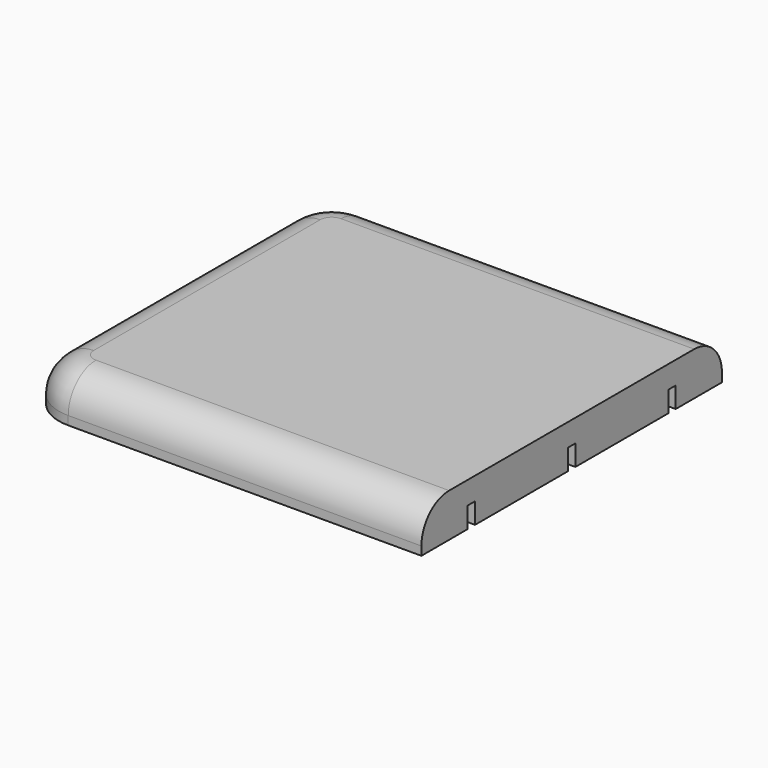
from build123d import *

# Parameters (mm, degrees)
F0_W     = 138.2199470003
F0_H     = 130
F1_DEPTH = 25
F2_R     = 16
F3_R     = 12
F4_DEPTH = 10
F5_W     = 3.2
F5_H     = 7.2
F6_DEPTH = 5


with BuildPart() as f1:
    # F0 (on Top) → F1 (new body)
    with BuildSketch(Plane.XY):
        with Locations((-8.8900264998, 0)):
            Rectangle(F0_W, F0_H)
    extrude(amount=F1_DEPTH)

    # F2
    f2_edges = [f1.edges().sort_by_distance(p)[0] for p in [
        (-78, -65, 12.5),
        (-78, 65, 12.5),
    ]]
    fillet(f2_edges, radius=F2_R)

    # F3
    f3_edges = [f1.edges().sort_by_distance(p)[0] for p in [
        (-0.890026, -65, 25),
    ]]
    fillet(f3_edges, radius=F3_R)

    # F4 (cut): a face of the model
    f4_faces = [f1.faces().sort_by_distance(p)[0] for p in [
        (-8.4868143179, 0, 0),
    ]]
    extrude(f4_faces, amount=-F4_DEPTH, mode=Mode.SUBTRACT)

    # F5 (on face) → F6 (cut)
    with BuildSketch(Plane.YZ.offset(60.2199470003)):
        with Locations((-43.4, 13.6)):
            Rectangle(F5_W, F5_H)
        Polygon((-1.6, 10), (0, 10), (1.6, 10), (1.6, 17.2), (0, 17.2), (-1.6, 17.2), align=None)
        with Locations((43.4, 13.6)):
            Rectangle(F5_W, F5_H)
    extrude(amount=-F6_DEPTH, mode=Mode.SUBTRACT)


solid = f1.part
